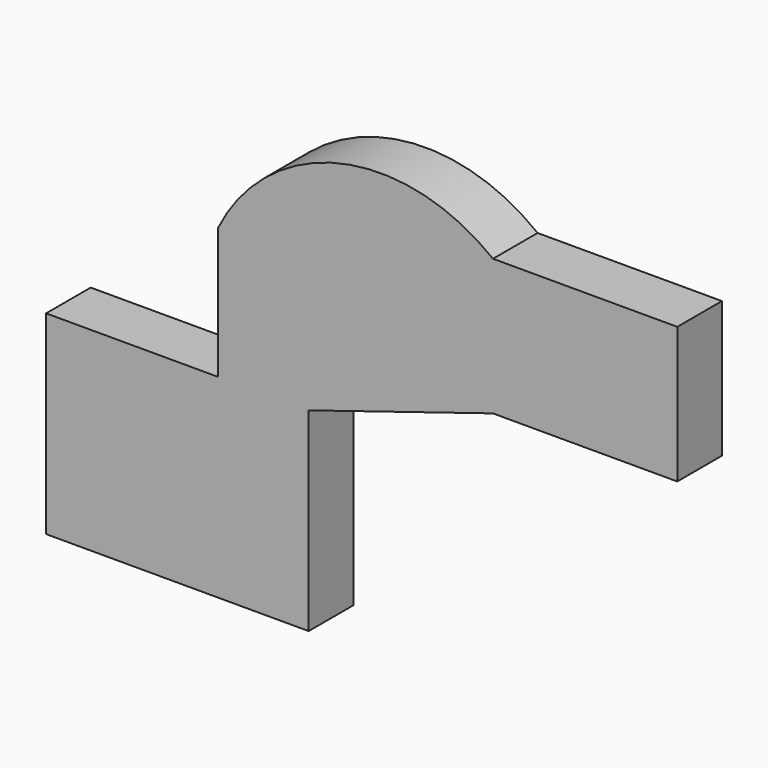
from build123d import *

# Parameters (mm, degrees)
F0_W     = 82.591541
F0_H     = 61.012193
F1_DEPTH = 12.5


with BuildPart() as f1:
    # F0 (on Front) → F1 (new body, symmetric)
    with BuildSketch(Plane.XZ):
        Polygon((-188.376583, -66.234104), (-70.711933, -66.234104), (-70.711933, 20.857852), (-111.442, 20.857852), (-188.376583, 20.857852), align=None)
        with Locations((53.175371, 77.011212)):
            Rectangle(F0_W, F0_H)
        with BuildLine():
            Line((-111.442, 20.857852), (-70.711933, 20.857852))
            Line((-70.711933, 20.857852), (11.879601, 46.505116))
            Line((11.879601, 46.505116), (11.879601, 107.517309))
            ThreePointArc((11.879601, 107.517309), (-56.481986, 122.901855), (-111.442, 79.434767))
            Line((-111.442, 79.434767), (-111.442, 20.857852))
        make_face()
    extrude(amount=F1_DEPTH, both=True)


solid = f1.part
